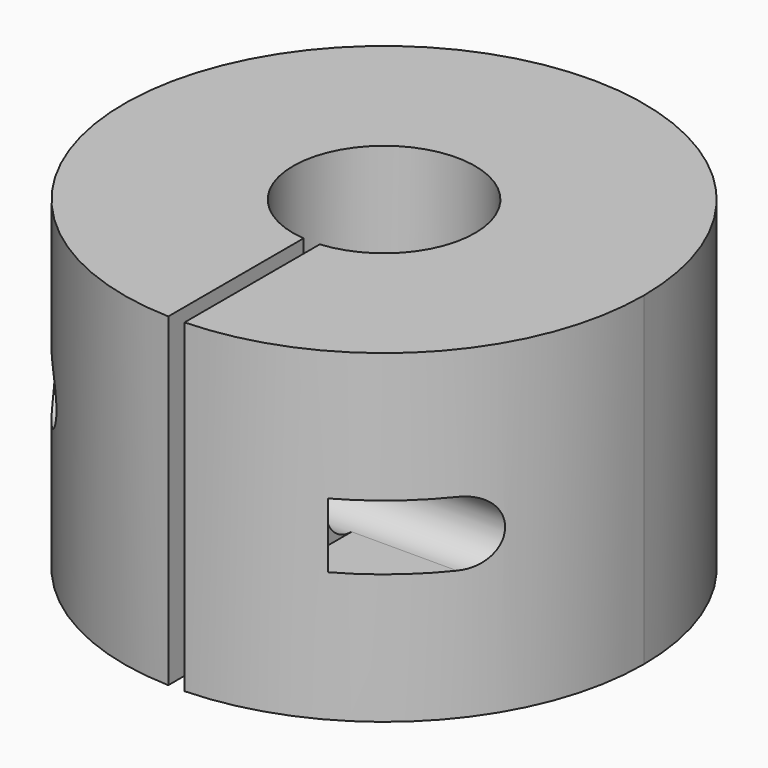
from build123d import *

# Parameters (mm, degrees)
F0_R     = 80
F0_R_2   = 28
F1_DEPTH = 100
F2_R     = 10
F3_DEPTH = 250
F5_DEPTH = 100.0010001
F8_DEPTH = 50


with BuildPart() as f1:
    # F0 (on Top) → F1 (new body)
    with BuildSketch(Plane.XY):
        Circle(F0_R)
        Circle(F0_R_2, mode=Mode.SUBTRACT)
    extrude(amount=F1_DEPTH)

    # F2 (on Right) → F3 (cut, symmetric)
    with BuildSketch(Plane.YZ):
        with Locations((-50, 50)):
            Circle(F2_R)
    extrude(amount=F3_DEPTH, both=True, mode=Mode.SUBTRACT)

    # F4 (on face) → F5 (cut, through all)
    with BuildSketch(Plane.XY.offset(100)):
        with BuildLine():
            ThreePointArc((2.5, -27.8881695348), (0, -28), (-2.5, -27.8881695348))
            Line((-2.5, -27.8881695348), (-2.5, -79.9609279586))
            ThreePointArc((-2.5, -79.9609279586), (0, -80), (2.5, -79.9609279586))
            Line((2.5, -79.9609279586), (2.5, -27.8881695348))
        make_face()
    extrude(amount=-F5_DEPTH, mode=Mode.SUBTRACT)

    # F7 (on offset) → F8 (cut)
    with BuildSketch(Plane.YZ.offset(80)):
        with BuildLine():
            ThreePointArc((-50, 40), (-60, 50), (-50, 60))
            Line((-50, 60), (-70, 60))
            Line((-70, 60), (-70, 40))
            Line((-70, 40), (-50, 40))
        make_face()
    extrude(amount=-F8_DEPTH, mode=Mode.SUBTRACT)


solid = f1.part
